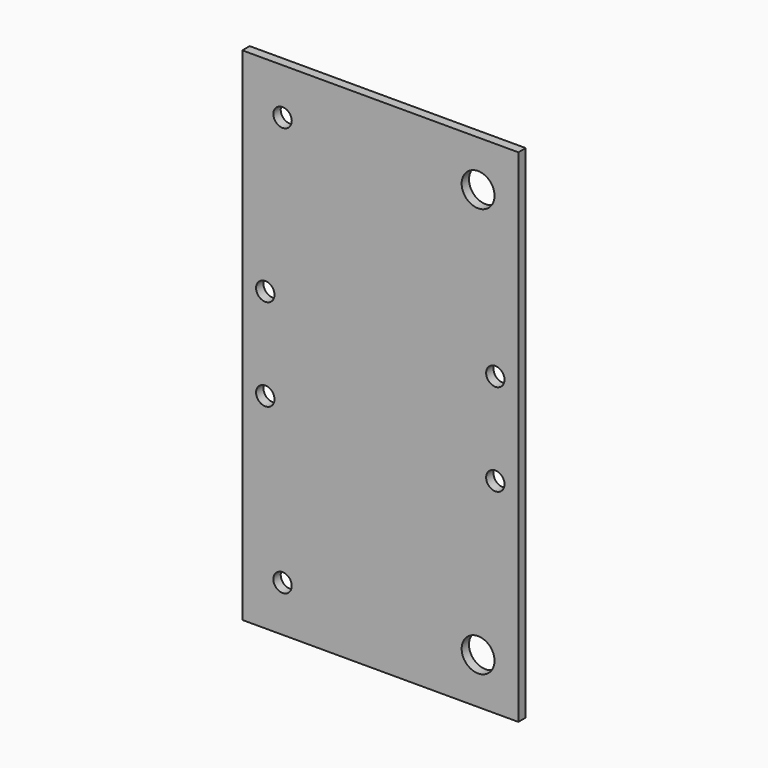
from build123d import *

# Parameters (mm, degrees)
F0_W     = 60
F0_H     = 109
F1_DEPTH = 2
F2_R     = 2
F2_R_2   = 3.575
F3_DEPTH = 2
F4_R     = 2
F5_DEPTH = 2


with BuildPart() as f1:
    # F0 (on Front) → F1 (new body)
    with BuildSketch(Plane.XZ):
        Rectangle(F0_W, F0_H)
    extrude(amount=F1_DEPTH)

    # F2 (on face) → F3 (cut, through all)
    with BuildSketch(Plane.XZ.offset(2)):
        with Locations((-21.25, 44.5)):
            Circle(F2_R)
        with Locations((-21.25, -44.5)):
            Circle(F2_R)
        with Locations((21.25, 44.5)):
            Circle(F2_R_2)
        with Locations((21.25, -44.5)):
            Circle(F2_R_2)
    extrude(amount=-F3_DEPTH, mode=Mode.SUBTRACT)

    # F4 (on face) → F5 (cut, through all)
    with BuildSketch(Plane.XZ.offset(2)):
        with Locations((-25, 10)):
            Circle(F4_R)
        with Locations((25, 10)):
            Circle(F4_R)
        with Locations((-25, -10)):
            Circle(F4_R)
        with Locations((25, -10)):
            Circle(F4_R)
    extrude(amount=-F5_DEPTH, mode=Mode.SUBTRACT)


solid = f1.part
